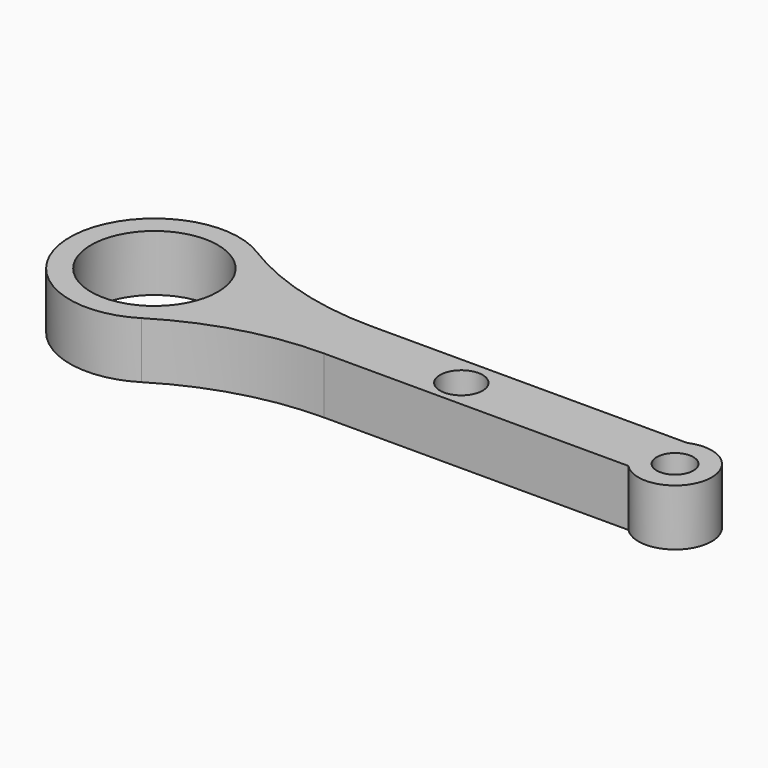
from build123d import *

# Parameters (mm, degrees)
F0_R     = 1.917254
F0_R_2   = 1.651
F0_R_3   = 5.715
F1_DEPTH = 5.08


with BuildPart() as f1:
    # F0 (on Top) → F1 (new body)
    with BuildSketch(Plane.XY):
        with BuildLine():
            ThreePointArc((-23.719894, -3.816054), (-17.291451, -0.972636), (-10.32985, 0))
            Line((-10.32985, 0), (17.073956, 0))
            ThreePointArc((17.073956, 0), (22.687581, 1.659287), (18.118341, 5.318259))
            Line((18.118341, 5.318259), (-10.32985, 5.318259))
            ThreePointArc((-10.32985, 5.318259), (-17.291451, 6.290895), (-23.719894, 9.134313))
            ThreePointArc((-23.719894, 9.134313), (-35.356908, 2.659129), (-23.719894, -3.816054))
        make_face()
        with Locations((0, 2.544119)):
            Circle(F0_R, mode=Mode.SUBTRACT)
        with Locations((19.447466, 2.295572)):
            Circle(F0_R_2, mode=Mode.SUBTRACT)
        with Locations((-27.736908, 2.659129)):
            Circle(F0_R_3, mode=Mode.SUBTRACT)
    extrude(amount=F1_DEPTH)


solid = f1.part
